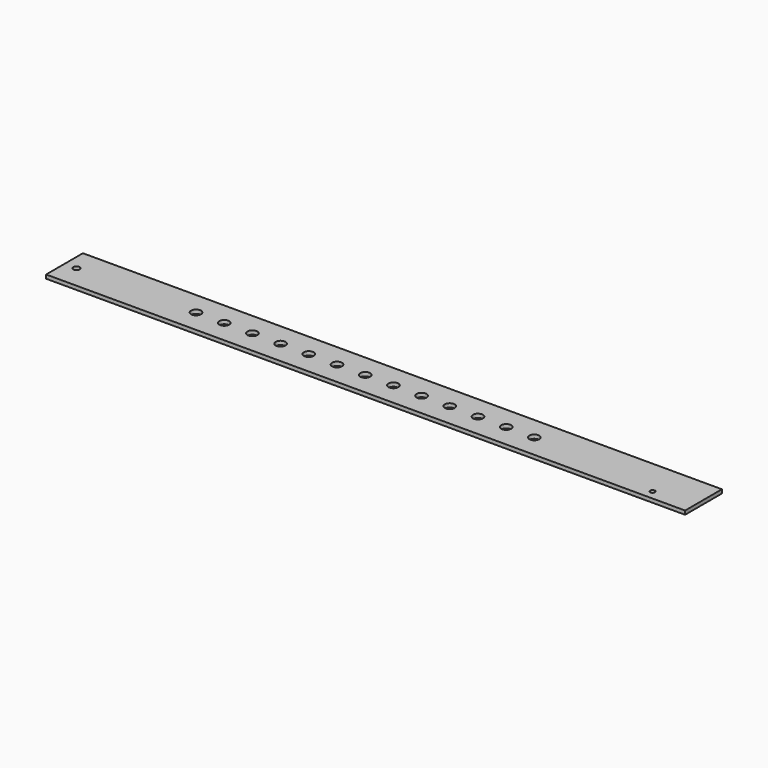
from build123d import *

# Parameters (mm, degrees)
F0_W     = 300
F0_H     = 24.5
F0_R     = 2.65
F1_DEPTH = 2
F2_DEPTH = 10
F3_DEPTH = 30
F4_R     = 1.7
F5_DEPTH = 2
F6_R     = 1.25
F7_DEPTH = 2


with BuildPart() as f1:
    # F0 (on Top) → F1 (new body)
    with BuildSketch(Plane.XY):
        Rectangle(F0_W, F0_H)
        with Locations((-90, 0)):
            Circle(F0_R, mode=Mode.SUBTRACT)
        with Locations((-75, 0)):
            Circle(F0_R, mode=Mode.SUBTRACT)
        with Locations((-60, 0)):
            Circle(F0_R, mode=Mode.SUBTRACT)
        with Locations((-45, 0)):
            Circle(F0_R, mode=Mode.SUBTRACT)
        with Locations((-30, 0)):
            Circle(F0_R, mode=Mode.SUBTRACT)
        with Locations((-15, 0)):
            Circle(F0_R, mode=Mode.SUBTRACT)
        Circle(F0_R, mode=Mode.SUBTRACT)
        with Locations((15, 0)):
            Circle(F0_R, mode=Mode.SUBTRACT)
        with Locations((30, 0)):
            Circle(F0_R, mode=Mode.SUBTRACT)
        with Locations((45, 0)):
            Circle(F0_R, mode=Mode.SUBTRACT)
        with Locations((60, 0)):
            Circle(F0_R, mode=Mode.SUBTRACT)
        with Locations((75, 0)):
            Circle(F0_R, mode=Mode.SUBTRACT)
        with Locations((90, 0)):
            Circle(F0_R, mode=Mode.SUBTRACT)
    extrude(amount=F1_DEPTH)

    # F2 (add): a face of the model
    f2_faces = [f1.faces().sort_by_distance(p)[0] for p in [
        (-150, 0, 1),
    ]]
    extrude(f2_faces, amount=F2_DEPTH)

    # F3 (add): a face of the model
    f3_faces = [f1.faces().sort_by_distance(p)[0] for p in [
        (150, 0, 1),
    ]]
    extrude(f3_faces, amount=F3_DEPTH)

    # F4 (on face) → F5 (cut, through all)
    with BuildSketch(Plane.XY.offset(2)):
        with Locations((-153.6, 0)):
            Circle(F4_R)
    extrude(amount=-F5_DEPTH, mode=Mode.SUBTRACT)

    # F6 (on face) → F7 (cut, through all)
    with BuildSketch(Plane.XY.offset(2)):
        with Locations((158.75, -7.25)):
            Circle(F6_R)
    extrude(amount=-F7_DEPTH, mode=Mode.SUBTRACT)


solid = f1.part
